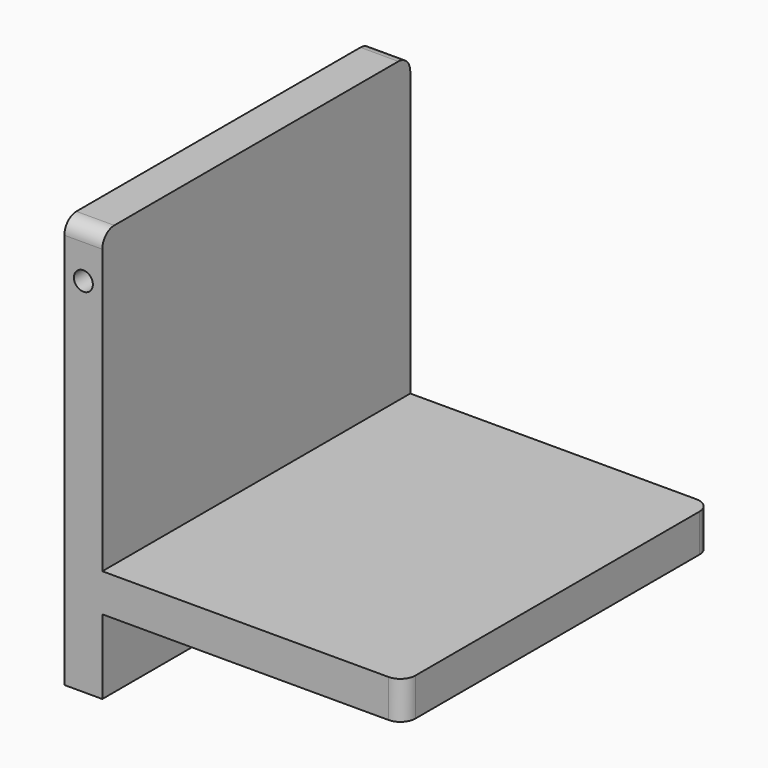
from build123d import *

# Parameters (mm, degrees)
F0_W      = 113.6
F0_H      = 129
F1_DEPTH  = 12.7
F2_W      = 12.7
F2_H      = 129
F3_DEPTH  = 100
F4_R      = 3.175
F5_DEPTH  = 12.7
F6_R      = 5
F7_W      = 12.700058
F7_H      = 129
F8_DEPTH  = 25
F9_W      = 12.6
F9_H      = 85.052852
F10_DEPTH = 12
F11_R     = 5
F12_R     = 3.175
F13_DEPTH = 12.7


with BuildPart() as f1:
    # F0 (on Top) → F1 (new body)
    with BuildSketch(Plane.XY):
        Rectangle(F0_W, F0_H)
    extrude(amount=F1_DEPTH)

    # F2 (on face) → F3 (join)
    with BuildSketch(Plane.XY.offset(12.7)):
        with Locations((-50.45, 0)):
            Rectangle(F2_W, F2_H)
    extrude(amount=F3_DEPTH)

    # F4 (on face) → F5 (cut)
    with BuildSketch(Plane.XZ.offset(64.5)):
        with Locations((-50.45, 96.26574)):
            Circle(F4_R)
    extrude(amount=-F5_DEPTH, mode=Mode.SUBTRACT)

    # F6
    f6_edges = [f1.edges().sort_by_distance(p)[0] for p in [
        (-50.45, -64.5, 112.7),
        (-50.45, 64.5, 112.7),
        (56.8, -64.5, 6.35),
        (56.8, 64.5, 6.35),
    ]]
    fillet(f6_edges, radius=F6_R)

    # F7 (on face) → F8 (join)
    with BuildSketch(Plane(origin=(0, 0, 0), x_dir=(1, 0, 0), z_dir=(0, 0, -1))):
        with Locations((-50.449971, 0)):
            Rectangle(F7_W, F7_H)
    extrude(amount=F8_DEPTH)

    # F9 (on face) → F10 (join)
    with BuildSketch(Plane(origin=(0, 0, 0), x_dir=(1, 0, 0), z_dir=(0, 0, -1))):
        with Locations((6.45, 0)):
            Rectangle(F9_W, F9_H)
    extrude(amount=F10_DEPTH)

    # F11
    f11_edges = [f1.edges().sort_by_distance(p)[0] for p in [
        (0.15, -42.526426, -6),
        (12.75, -42.526426, -6),
        (0.15, 42.526426, -6),
        (12.75, 42.526426, -6),
    ]]
    fillet(f11_edges, radius=F11_R)

    # F12 (on face) → F13 (cut)
    with BuildSketch(Plane(origin=(0, 64.5, 0), x_dir=(-1, 0, 0), z_dir=(0, 1, 0))):
        with Locations((50.45, 96.266)):
            Circle(F12_R)
    extrude(amount=-F13_DEPTH, mode=Mode.SUBTRACT)


solid = f1.part
